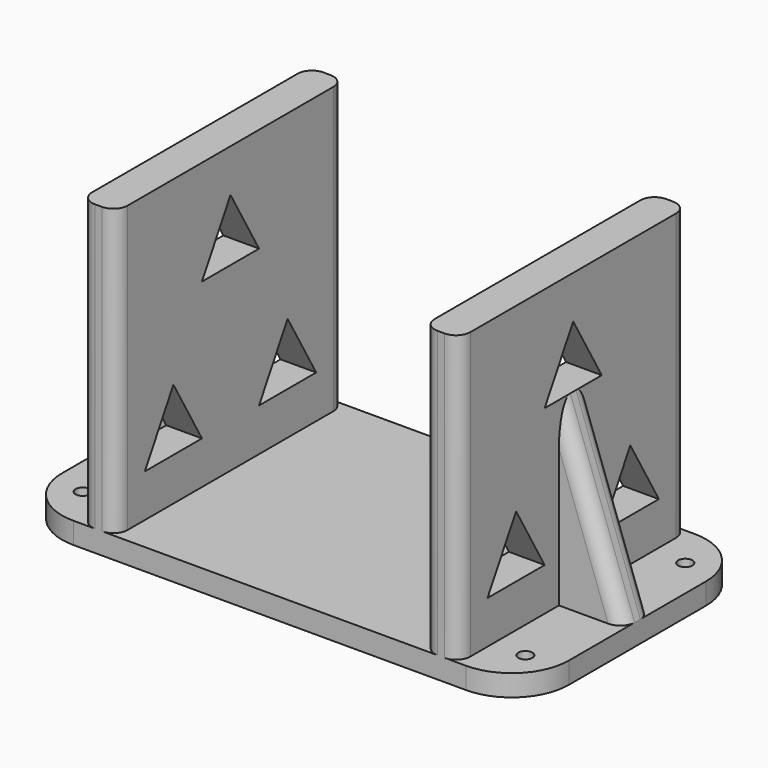
from build123d import *

# Parameters (mm, degrees)
F0_W      = 71
F0_H      = 40
F1_DEPTH  = 3
F2_W      = 5
F2_H      = 40
F3_DEPTH  = 40
F4_R      = 1
F5_DEPTH  = 3.001
F7_DEPTH  = 62.001
F13_DEPTH = 2.5
F14_R     = 8
F15_R     = 2


with BuildPart() as f1:
    # F0 (on Top) → F1 (new body)
    with BuildSketch(Plane.XY):
        with Locations((35.5, -20)):
            Rectangle(F0_W, F0_H)
    extrude(amount=F1_DEPTH)

    # F2 (on face) → F3 (join)
    with BuildSketch(Plane.XY.offset(3)):
        with Locations((11.5, -20)):
            Rectangle(F2_W, F2_H)
        with Locations((59.5, -20)):
            Rectangle(F2_W, F2_H)
    extrude(amount=F3_DEPTH)

    # F4 (on face) → F5 (cut, through all)
    with BuildSketch(Plane.XY.offset(3)):
        with Locations((4.5, -6)):
            Circle(F4_R)
        with Locations((4.5, -34)):
            Circle(F4_R)
        with Locations((66.5, -6)):
            Circle(F4_R)
        with Locations((66.5, -34)):
            Circle(F4_R)
    extrude(amount=-F5_DEPTH, mode=Mode.SUBTRACT)

    # F6 (on face) → F7 (cut, through all)
    with BuildSketch(Plane(origin=(9, 0, 0), x_dir=(0, -1, 0), z_dir=(-1, 0, 0))):
        Polygon((10, 17.6602540378), (5, 9), (15, 9), align=None)
        Polygon((25, 28.3397459622), (20, 37), (15, 28.3397459622), align=None)
        Polygon((35, 9), (30, 17.6602540378), (25, 9), align=None)
    extrude(amount=-F7_DEPTH, mode=Mode.SUBTRACT)

    # F12 (on 3pt) → F13 (join, symmetric)
    with BuildSketch(Plane.XZ.offset(20)):
        Polygon((62, 28.3397459622), (62, 3), (71, 3), align=None)
        Polygon((0, 3), (9, 3), (9, 28.3397459622), align=None)
    extrude(amount=F13_DEPTH, both=True)

    # F14
    f14_edges = [f1.edges().sort_by_distance(p)[0] for p in [
        (71, 0, 1.5),
        (0, 0, 1.5),
        (71, -40, 1.5),
        (0, -40, 1.5),
    ]]
    fillet(f14_edges, radius=F14_R)

    # F15
    f15_edges = [f1.edges().sort_by_distance(p)[0] for p in [
        (9, -40, 23),
        (9, 0, 23),
        (62, -40, 23),
        (62, 0, 23),
        (4.5, -17.5, 15.669873),
        (4.5, -22.5, 15.669873),
        (66.5, -17.5, 15.669873),
        (66.5, -22.5, 15.669873),
        (57, 0, 23),
        (14, 0, 23),
        (57, -40, 23),
        (14, -40, 23),
    ]]
    fillet(f15_edges, radius=F15_R)


solid = f1.part
